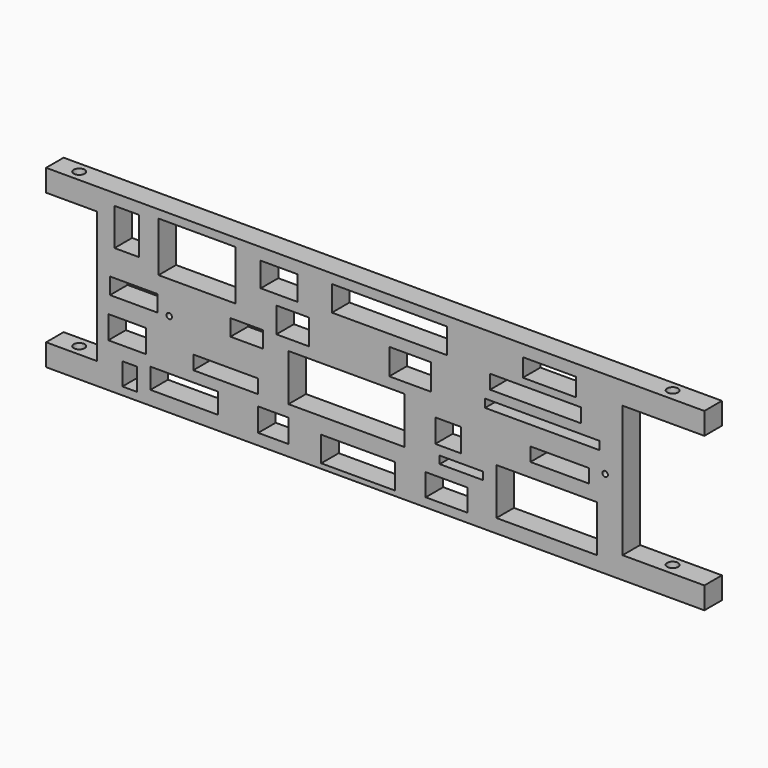
from build123d import *

# Parameters (mm, degrees)
F0_W     = 381
F0_H     = 101.6
F1_DEPTH = 12.7
F2_W     = 44.543445
F2_H     = 28.842324
F2_W_2   = 27.413249
F2_H_2   = 9.482801
F2_W_3   = 39.025373
F2_H_3   = 11.841384
F2_W_4   = 67.109051
F2_H_4   = 27.095137
F2_W_5   = 66.744328
F2_H_5   = 14.588922
F2_W_6   = 18.965602
F2_W_7   = 37.566483
F2_H_6   = 8.023907
F2_W_8   = 42.672605
F2_H_7   = 14.588925
F2_W_9   = 17.506707
F2_H_8   = 13.468034
F2_W_10  = 8.568198
F2_H_9   = 12.874041
F2_W_11  = 21.838954
F2_H_10  = 13.367074
F2_W_12  = 14.083162
F2_H_11  = 21.530468
F2_W_13  = 19.033331
F2_H_12  = 14.701502
F2_W_14  = 66.379599
F2_H_13  = 4.741401
F2_W_15  = 58.355704
F2_H_14  = 26.989511
F2_W_16  = 25.165893
F2_H_15  = 4.376677
F2_W_17  = 30.636735
F2_H_16  = 10.46557
F2_W_18  = 52.520126
F2_H_17  = 8.157725
F2_W_19  = 33.919238
F2_H_18  = 7.933862
F2_W_20  = 14.953643
F2_H_19  = 13.494756
F2_W_21  = 24.07172
F2_H_20  = 15.053647
F2_W_22  = 21.153938
F2_H_21  = 14.091857
F2_W_23  = 47.352944
F2_H_22  = 76.2
F2_W_24  = 24.159947
F2_H_23  = 12.841732
F2_W_25  = 29.462242
F3_DEPTH = 12.701
F4_R     = 3.175
F5_DEPTH = 101.601
F6_R     = 1.5875
F7_DEPTH = 12.701


with BuildPart() as f1:
    # F0 (on Front) → F1 (new body)
    with BuildSketch(Plane.XZ):
        Rectangle(F0_W, F0_H)
    extrude(amount=F1_DEPTH)

    # F2 (on face) → F3 (cut, through all)
    with BuildSketch(Plane.XZ.offset(12.7)):
        with Locations((-103.138441, 31.688611)):
            Rectangle(F2_W, F2_H)
        with Locations((-139.799008, 2.707727)):
            Rectangle(F2_W_2, F2_H_2)
        with Locations((-110.591656, -36.794207)):
            Rectangle(F2_W_3, F2_H_3)
        with Locations((-16.675455, -10.475118)):
            Rectangle(F2_W_4, F2_H_4)
        with Locations((8.308077, 38.085867)):
            Rectangle(F2_W_5, F2_H_5)
        with Locations((-74.301707, 4.166619)):
            Rectangle(F2_W_6, F2_H_2)
        with Locations((-86.519928, -20.634552)):
            Rectangle(F2_W_7, F2_H_6)
        with Locations((-9.928079, -40.694322)):
            Rectangle(F2_W_8, F2_H_7)
        with Locations((-58.983334, -37.607532)):
            Rectangle(F2_W_9, F2_H_8)
        with Locations((-142.047623, -39.836879)):
            Rectangle(F2_W_10, F2_H_9)
        with Locations((-143.57688, -18.692414)):
            Rectangle(F2_W_11, F2_H_10)
        with Locations((-143.858196, 33.532733)):
            Rectangle(F2_W_12, F2_H_11)
        with Locations((-47.710783, 16.634559)):
            Rectangle(F2_W_13, F2_H_12)
        with Locations((96.753428, 13.467059)):
            Rectangle(F2_W_14, F2_H_13)
        with Locations((99.306492, -29.387906)):
            Rectangle(F2_W_15, F2_H_14)
        with Locations((49.886511, -23.91706)):
            Rectangle(F2_W_16, F2_H_15)
        with Locations((100.765379, 38.81371)):
            Rectangle(F2_W_17, F2_H_16)
        with Locations((92.741473, 25.373465)):
            Rectangle(F2_W_18, F2_H_17)
        with Locations((106.78331, -3.966931)):
            Rectangle(F2_W_19, F2_H_18)
        with Locations((42.227322, -9.87522)):
            Rectangle(F2_W_20, F2_H_19)
        with Locations((20.161576, 16.649821)):
            Rectangle(F2_W_21, F2_H_20)
        with Locations((-55.700827, 36.834504)):
            Rectangle(F2_W_22, F2_H_21)
        with Locations((166.823528, 0)):
            Rectangle(F2_W_23, F2_H_22)
        with Locations((41.271404, -39.226733)):
            Rectangle(F2_W_24, F2_H_23)
        with Locations((-175.768879, 0)):
            Rectangle(F2_W_25, F2_H_22)
    extrude(amount=-F3_DEPTH, mode=Mode.SUBTRACT)

    # F4 (on face) → F5 (cut, through all)
    with BuildSketch(Plane(origin=(0, 0, -50.8), x_dir=(1, 0, 0), z_dir=(0, 0, -1))):
        with Locations((166.722789, 5.933621)):
            Circle(F4_R)
        with Locations((-176.396297, 6.35)):
            Circle(F4_R)
    extrude(amount=-F5_DEPTH, mode=Mode.SUBTRACT)

    # F6 (on face) → F7 (cut, through all)
    with BuildSketch(Plane.XZ.offset(12.7)):
        with Locations((-119.230784, -1.5875)):
            Circle(F6_R)
        with Locations((133.051559, 0)):
            Circle(F6_R)
    extrude(amount=-F7_DEPTH, mode=Mode.SUBTRACT)


solid = f1.part
